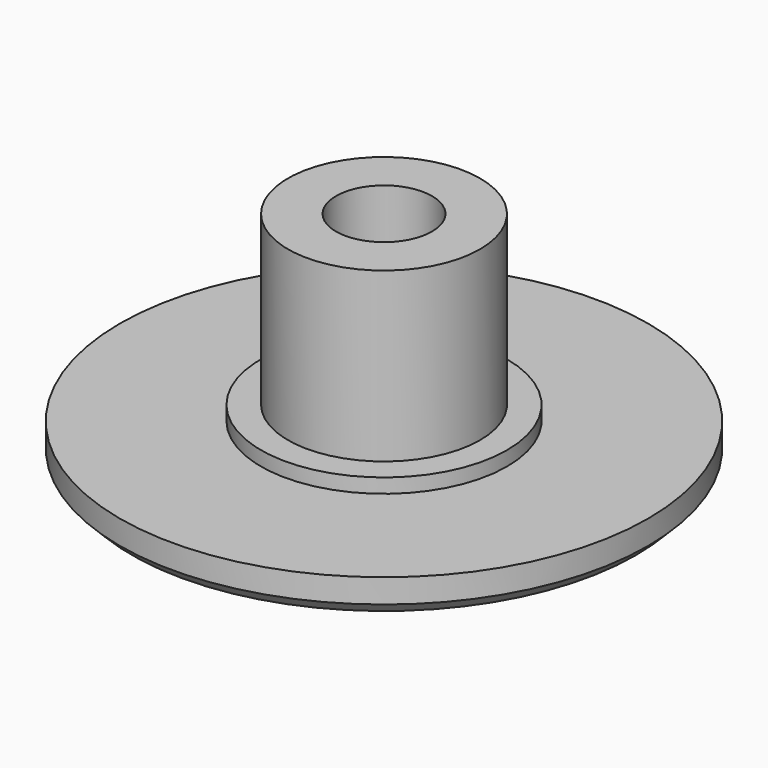
from build123d import *

# Parameters (mm, degrees)
F0_R     = 11
F1_DEPTH = 1.5
F2_R     = 5.125
F3_DEPTH = 0.6
F4_R     = 4
F5_DEPTH = 7
F6_R     = 2
F7_DEPTH = 7
F8_SIZE  = 0.5


with BuildPart() as f1:
    # F0 (on Top) → F1 (new body)
    with BuildSketch(Plane.XY):
        Circle(F0_R)
    extrude(amount=F1_DEPTH)

    # F2 (on face) → F3 (join)
    with BuildSketch(Plane.XY.offset(1.5)):
        Circle(F2_R)
    extrude(amount=F3_DEPTH)

    # F4 (on face) → F5 (join)
    with BuildSketch(Plane.XY.offset(2.1)):
        Circle(F4_R)
    extrude(amount=F5_DEPTH)

    # F6 (on face) → F7 (cut, through all)
    with BuildSketch(Plane.XY.offset(9.1)):
        Circle(F6_R)
    extrude(amount=-F7_DEPTH, mode=Mode.SUBTRACT)

    # F8
    f8_edges = [f1.edges().sort_by_distance(p)[0] for p in [
        (-11, 0, 0),
    ]]
    chamfer(f8_edges, length=F8_SIZE)


solid = f1.part
